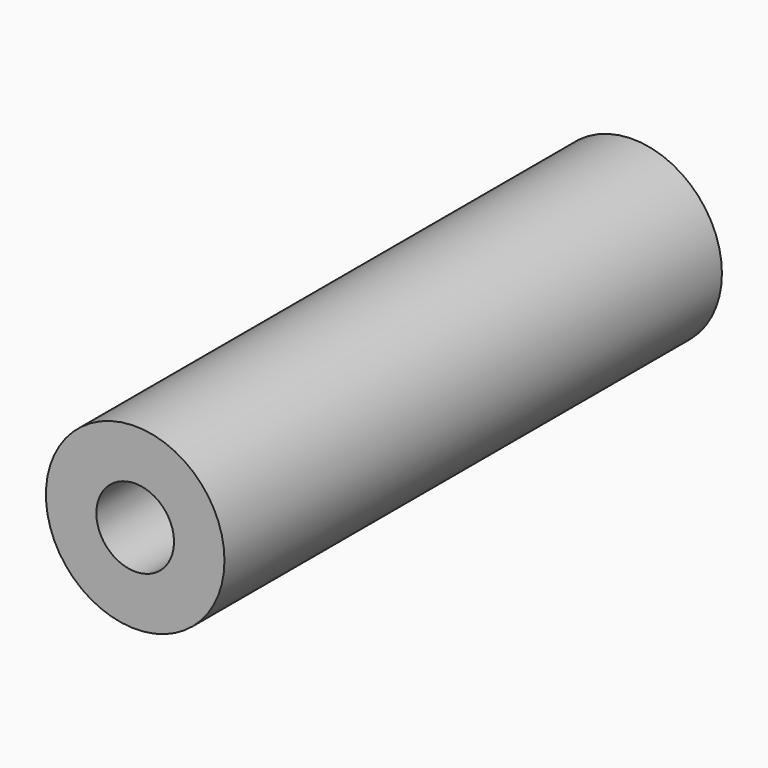
from build123d import *

# Parameters (mm, degrees)
F0_R     = 29.21
F1_DEPTH = 203.454
F3_D     = 25.4


with BuildPart() as f1:
    # F0 (on Front) → F1 (new body)
    with BuildSketch(Plane.XZ):
        Circle(F0_R)
    extrude(amount=-F1_DEPTH)

    # F3 (through all)
    with Locations(Plane.XZ):
        with Locations((0, 0)):
            Hole(F3_D / 2)


solid = f1.part
